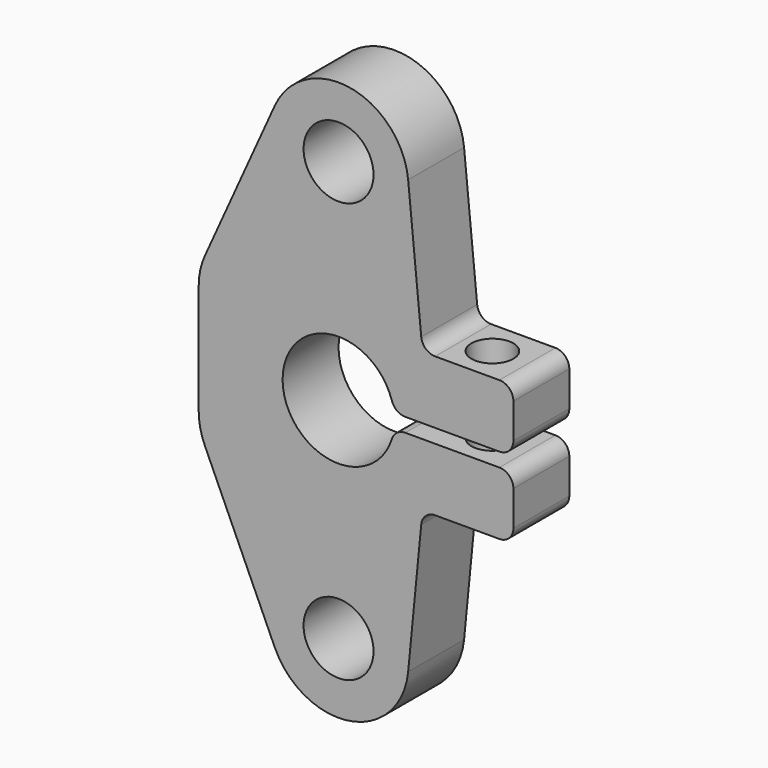
from build123d import *

# Parameters (mm, degrees)
F0_R     = 2.5
F1_DEPTH = 5
F2_R     = 5
F3_R     = 1.5
F4_DEPTH = 25
F5_R     = 1


with BuildPart() as f1:
    # F0 (on Front) → F1 (new body)
    with BuildSketch(Plane.XZ):
        with BuildLine():
            ThreePointArc((3.968627, -0.5), (-4, 0), (3.968627, 0.5))
            Line((3.968627, 0.5), (12.5, 0.5))
            Line((12.5, 0.5), (12.5, 5))
            Line((12.5, 5), (6, 5))
            Line((6, 5), (4.976343, 15.485806))
            ThreePointArc((4.976343, 15.485806), (0.813163, 19.933434), (-4.557189, 17.057189))
            Line((-4.557189, 17.057189), (-10, 5))
            Line((-10, 5), (-10, -5))
            Line((-10, -5), (-4.557189, -17.057189))
            ThreePointArc((-4.557189, -17.057189), (0.813163, -19.933434), (4.976343, -15.485806))
            Line((4.976343, -15.485806), (6, -5))
            Line((6, -5), (12.5, -5))
            Line((12.5, -5), (12.5, -0.5))
            Line((12.5, -0.5), (3.968627, -0.5))
        make_face()
        with Locations((0, -15)):
            Circle(F0_R, mode=Mode.SUBTRACT)
        with Locations((0, 15)):
            Circle(F0_R, mode=Mode.SUBTRACT)
    extrude(amount=F1_DEPTH)

    # F2
    f2_edges = [f1.edges().sort_by_distance(p)[0] for p in [
        (-10, -2.5, -5),
        (-10, -2.5, 5),
    ]]
    fillet(f2_edges, radius=F2_R)

    # F3 (on face) → F4 (cut)
    with BuildSketch(Plane(origin=(0, 0, -5), x_dir=(1, 0, 0), z_dir=(0, 0, -1))):
        with Locations((9, 2.5)):
            Circle(F3_R)
    extrude(amount=-F4_DEPTH, mode=Mode.SUBTRACT)

    # F5
    f5_edges = [f1.edges().sort_by_distance(p)[0] for p in [
        (6, -2.5, -5),
        (12.5, -2.5, -5),
        (12.5, -2.5, 5),
        (6, -2.5, 5),
        (12.5, -2.5, 0.5),
        (12.5, -2.5, -0.5),
        (3.968627, -2.5, -0.5),
        (3.968627, -2.5, 0.5),
    ]]
    fillet(f5_edges, radius=F5_R)


solid = f1.part
